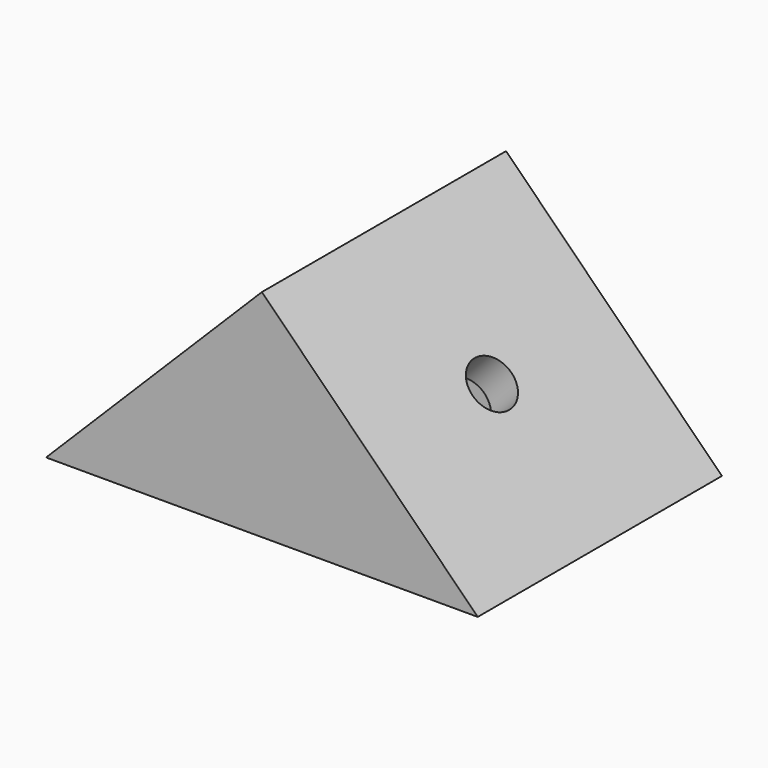
from build123d import *

# Parameters (mm, degrees)
F1_DEPTH = 12.7
F3_DEPTH = 3.175
F4_R     = 2.032
F5_DEPTH = 12.701


with BuildPart() as f1:
    # F0 (on Front) → F1 (new body)
    with BuildSketch(Plane.XZ):
        Polygon((0, 13.4703841816), (0, 17.9605122421), (-17.9605122421, 0), (-13.4703841816, 0), align=None)
    extrude(amount=F1_DEPTH)

    # F2 (on face) → F3 (join)
    with BuildSketch(Plane.XZ.offset(12.7)):
        Polygon((0, 0), (0, 13.4703841816), (-13.4703841816, 0), align=None)
    extrude(amount=-F3_DEPTH)

    # F4 (on face) → F5 (cut, through all)
    with BuildSketch(Plane(origin=(-8.9802561211, 0, 8.9802561211), x_dir=(0, -1, 0), z_dir=(-0.7071067812, 0, 0.7071067812))):
        Circle(F4_R)
    extrude(amount=-F5_DEPTH, mode=Mode.SUBTRACT)

    # F6: F1 across face


with BuildPart() as f1_1:
    add(f1.part)
    add(f1.part.mirror(Plane(origin=(0, -8.3910714286, 11.8667670171), x_dir=(0, 1, 0), z_dir=(1, 0, 0))))

    # F7: F1 across face


with BuildPart() as f1_2:
    add(f1_1.part)
    add(f1_1.part.mirror(Plane(origin=(0, 0, 12.6031300765), x_dir=(-1, 0, 0), z_dir=(0, 1, 0))))


solid = f1_2.part
